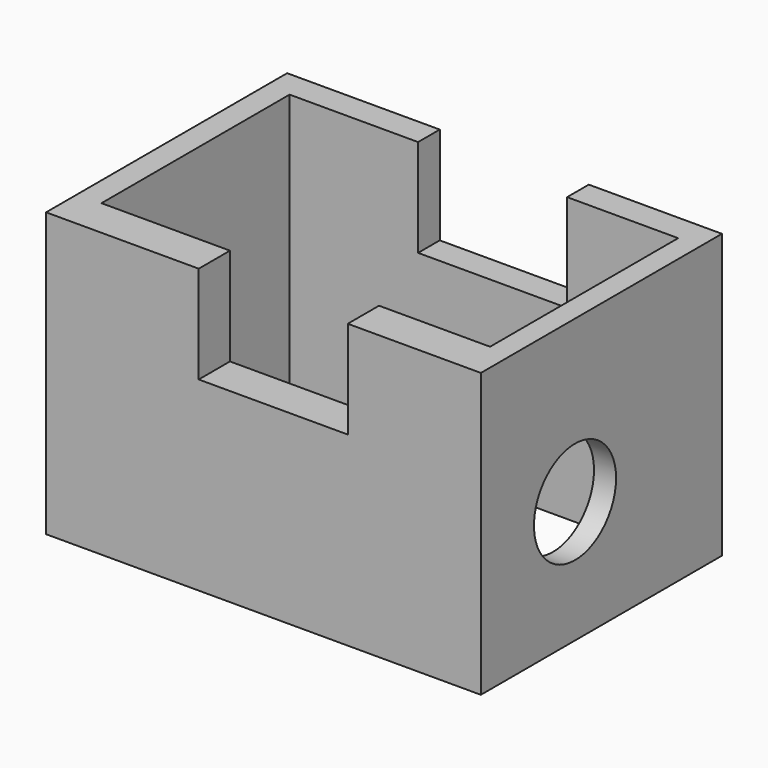
from build123d import *

# Parameters (mm, degrees)
F0_W     = 123.5331967473
F0_H     = 85.607599467
F0_W_2   = 110.4088798165
F0_H_2   = 66.8058078736
F1_DEPTH = 80.518
F2_W     = 42.3468332738
F2_H     = 27.7133138709
F3_DEPTH = 85.608599467
F4_R     = 14.5797051929
F5_DEPTH = 123.5341967473


with BuildPart() as f1:
    # F0 (on Top) → F1 (new body)
    with BuildSketch(Plane.XY):
        with Locations((-0.5623660982, 9.3691665679)):
            Rectangle(F0_W, F0_H)
        with Locations((-0.2685114741, 11.0694328323)):
            Rectangle(F0_W_2, F0_H_2, mode=Mode.SUBTRACT)
    extrude(amount=F1_DEPTH)

    # F2 (on face) → F3 (cut, through all)
    with BuildSketch(Plane.XZ.offset(33.4346331656)):
        with Locations((2.2117001936, 66.6613430645)):
            Rectangle(F2_W, F2_H)
    extrude(amount=-F3_DEPTH, mode=Mode.SUBTRACT)

    # F4 (on face) → F5 (cut, through all)
    with BuildSketch(Plane.YZ.offset(61.2042322755)):
        with Locations((0, 34.6741601825)):
            Circle(F4_R)
    extrude(amount=-F5_DEPTH, mode=Mode.SUBTRACT)


solid = f1.part
